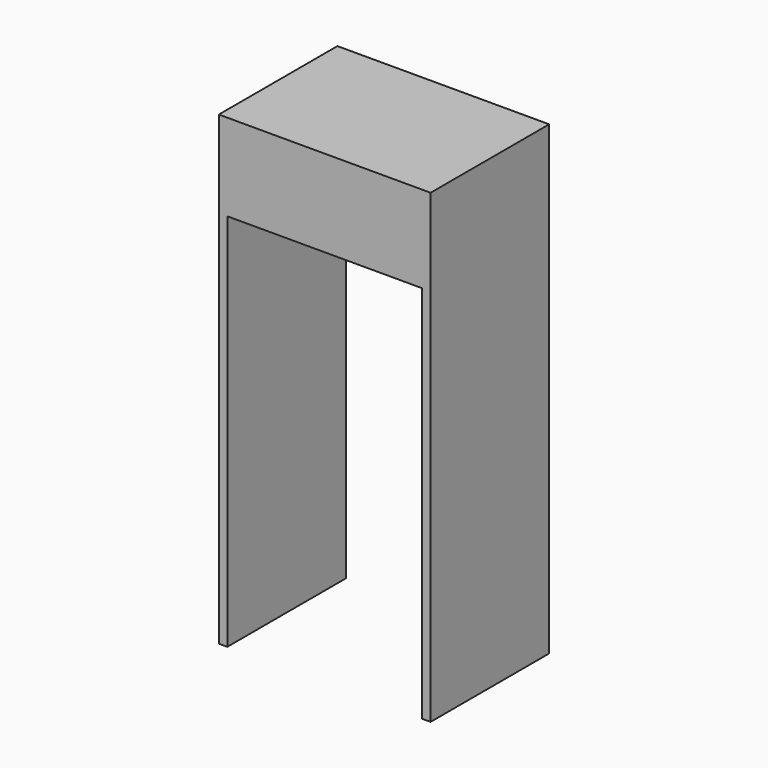
from build123d import *

# Parameters (mm, degrees)
F0_W     = 1000
F0_H     = 700
F1_DEPTH = 2200
F2_W     = 920
F2_H     = 1790
F3_DEPTH = 700.001


with BuildPart() as f1:
    # F0 (on Top) → F1 (new body)
    with BuildSketch(Plane.XY):
        with Locations((500, 350)):
            Rectangle(F0_W, F0_H)
    extrude(amount=F1_DEPTH)

    # F2 (on face) → F3 (cut, through all)
    with BuildSketch(Plane.XZ):
        with Locations((500, 895)):
            Rectangle(F2_W, F2_H)
    extrude(amount=-F3_DEPTH, mode=Mode.SUBTRACT)


solid = f1.part
